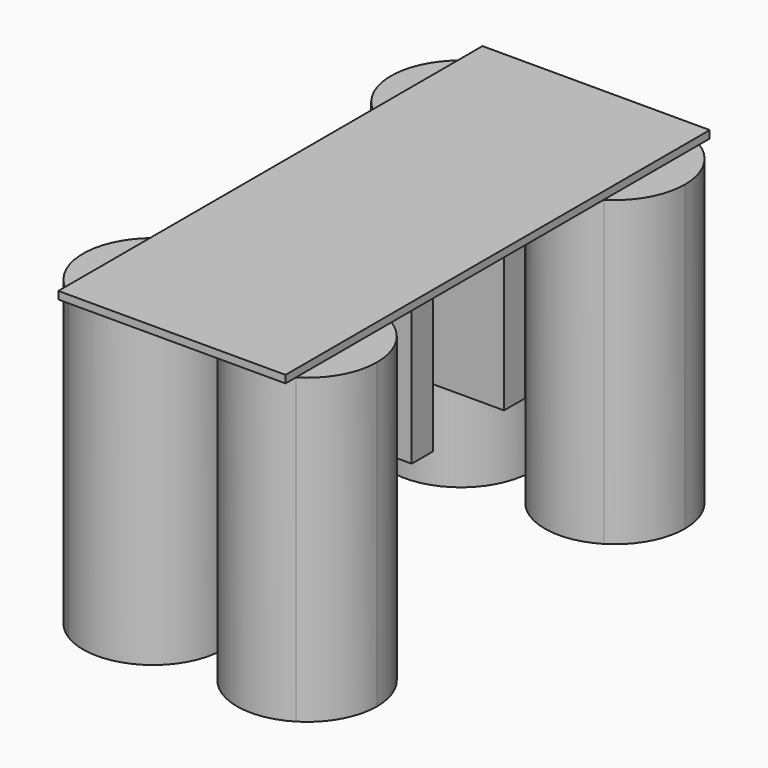
from build123d import *

# Parameters (mm, degrees)
F0_W     = 30
F0_H     = 70
F1_DEPTH = 1
F3_W     = 22.3
F3_H     = 3.5
F4_DEPTH = 21
F5_DEPTH = 40


with BuildPart() as f1:
    # F0 (on Top) → F1 (new body)
    with BuildSketch(Plane.XY):
        Rectangle(F0_W, F0_H)
    extrude(amount=F1_DEPTH)

    # F3 (on face) → F4 (join)
    with BuildSketch(Plane(origin=(0, 0, 0), x_dir=(1, 0, 0), z_dir=(0, 0, -1))):
        with Locations((0, 7.62)):
            Rectangle(F3_W, F3_H)
        with Locations((0, -7.62)):
            Rectangle(F3_W, F3_H)
    extrude(amount=F4_DEPTH)

    # F3 (on face) → F5 (join)
    with BuildSketch(Plane(origin=(0, 0, 0), x_dir=(1, 0, 0), z_dir=(0, 0, -1))):
        with BuildLine():
            Line((-15, 17.517304), (-15, 33.282696))
            ThreePointArc((-15, 33.282696), (-19.41, 25.4), (-15, 17.517304))
        make_face()
        with BuildLine():
            Line((15, 17.517304), (15, 33.282696))
            ThreePointArc((15, 33.282696), (0.91, 25.4), (15, 17.517304))
        make_face()
        with BuildLine():
            ThreePointArc((-0.91, -25.4), (-5.643779, -17.327438), (-15, -17.517304))
            Line((-15, -17.517304), (-15, -33.282696))
            ThreePointArc((-15, -33.282696), (-5.643779, -33.472562), (-0.91, -25.4))
        make_face()
        with BuildLine():
            ThreePointArc((19.41, -25.4), (18.232562, -20.883779), (15, -17.517304))
            Line((15, -17.517304), (15, -33.282696))
            ThreePointArc((15, -33.282696), (18.232562, -29.916221), (19.41, -25.4))
        make_face()
        with BuildLine():
            Line((-15, -33.282696), (-15, -17.517304))
            ThreePointArc((-15, -17.517304), (-19.41, -25.4), (-15, -33.282696))
        make_face()
        with BuildLine():
            ThreePointArc((-0.91, 25.4), (-5.643779, 33.472562), (-15, 33.282696))
            Line((-15, 33.282696), (-15, 17.517304))
            ThreePointArc((-15, 17.517304), (-5.643779, 17.327438), (-0.91, 25.4))
        make_face()
        with BuildLine():
            ThreePointArc((15, 17.517304), (18.232562, 20.883779), (19.41, 25.4))
            ThreePointArc((19.41, 25.4), (18.232562, 29.916221), (15, 33.282696))
            Line((15, 33.282696), (15, 17.517304))
        make_face()
        with BuildLine():
            Line((15, -33.282696), (15, -17.517304))
            ThreePointArc((15, -17.517304), (0.91, -25.4), (15, -33.282696))
        make_face()
    extrude(amount=F5_DEPTH)


solid = f1.part
